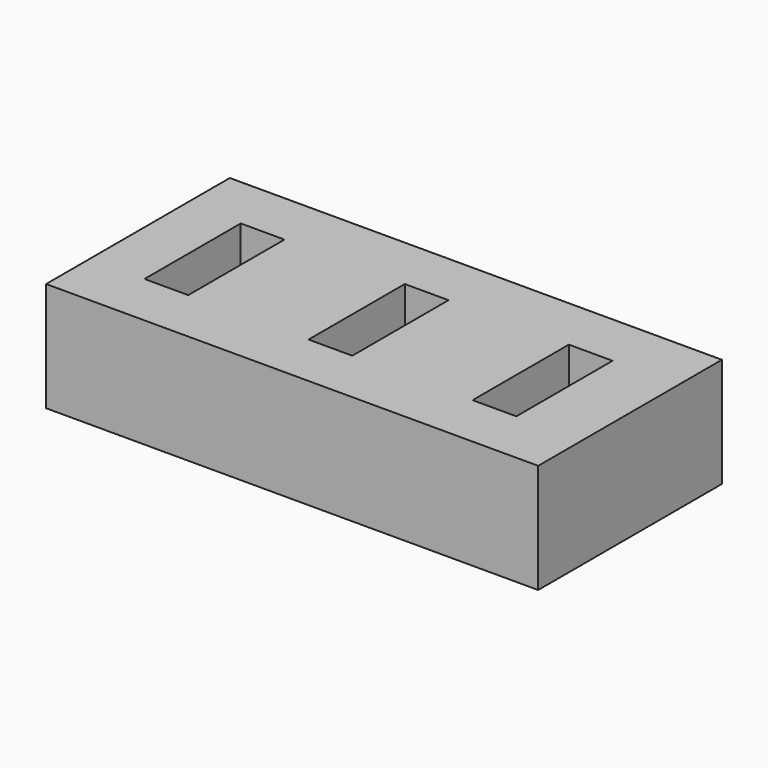
from build123d import *

# Parameters (mm, degrees)
BOX001_W     = 4
BOX001_H     = 11
BOX001_DEPTH = 12
BOX002_W     = 4
BOX002_H     = 11
BOX002_DEPTH = 12
BOX_W        = 4
BOX_H        = 11
BOX_DEPTH    = 12
BOX003_W     = 45
BOX003_H     = 21
BOX003_DEPTH = 10


with BuildPart() as cube001:
    # Box001 → Box001 (new body)
    with BuildSketch(Plane(origin=(15, 0, 0), x_dir=(1, 0, 0), z_dir=(0, 0, 1))):
        with Locations((2, 5.5)):
            Rectangle(BOX001_W, BOX001_H)
    extrude(amount=BOX001_DEPTH)


with BuildPart() as cube002:
    # Box002 → Box002 (new body)
    with BuildSketch(Plane(origin=(30, 0, 0), x_dir=(1, 0, 0), z_dir=(0, 0, 1))):
        with Locations((2, 5.5)):
            Rectangle(BOX002_W, BOX002_H)
    extrude(amount=BOX002_DEPTH)


with BuildPart() as fusion:
    # Box → Box (new body)
    with BuildSketch(Plane.XY):
        with Locations((2, 5.5)):
            Rectangle(BOX_W, BOX_H)
    extrude(amount=BOX_DEPTH)

    # Fusion: union Cube001, Cube002
    add(cube001.part)
    add(cube002.part)


with BuildPart() as fusion_1:
    # Fusion placement: moved
    add(fusion.part.moved(Location((5, 5, 3))))


with BuildPart() as cut:
    # Box003 → Box003 (new body)
    with BuildSketch(Plane.XY):
        with Locations((22.5, 10.5)):
            Rectangle(BOX003_W, BOX003_H)
    extrude(amount=BOX003_DEPTH)

    # Cut: cut Fusion
    add(fusion_1.part, mode=Mode.SUBTRACT)


solid = cut.part
